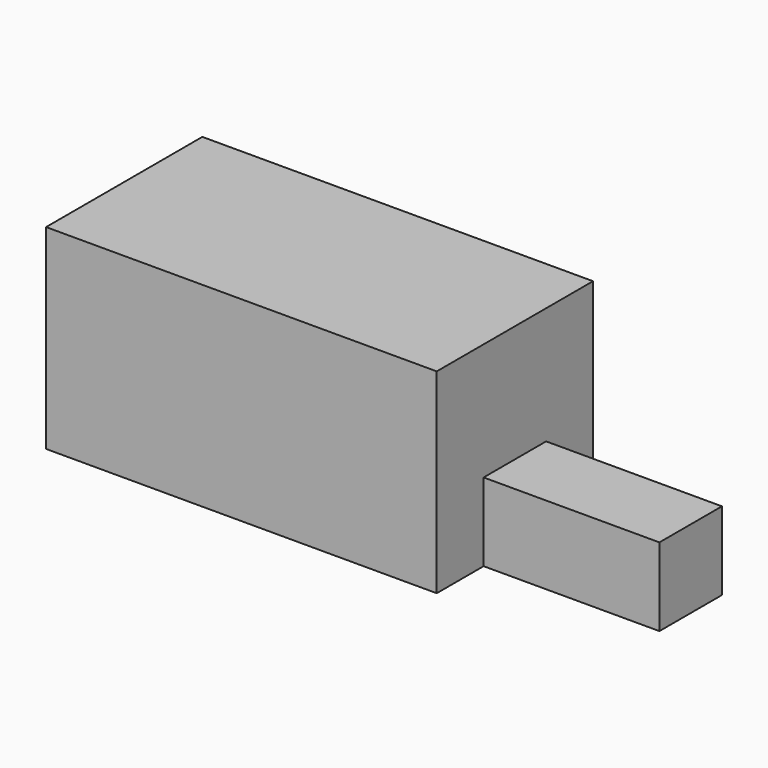
from build123d import *

# Parameters (mm, degrees)
F0_W     = 20
F0_H     = 10
F1_DEPTH = 10
F2_W     = 4
F2_H     = 4
F3_DEPTH = 9
F4_W     = 5.5
F4_H     = 5
F5_DEPTH = 10


with BuildPart() as f1:
    # F0 (on Top) → F1 (new body)
    with BuildSketch(Plane.XY):
        with Locations((10, 5)):
            Rectangle(F0_W, F0_H)
    extrude(amount=F1_DEPTH)

    # F2 (on face) → F3 (join)
    with BuildSketch(Plane.YZ.offset(20)):
        with Locations((5, 2)):
            Rectangle(F2_W, F2_H)
    extrude(amount=F3_DEPTH)

    # F4 (on face) → F5 (cut)
    with BuildSketch(Plane(origin=(0, 0, 0), x_dir=(0, -1, 0), z_dir=(-1, 0, 0))):
        with Locations((-5, 3.5)):
            Rectangle(F4_W, F4_H)
    extrude(amount=-F5_DEPTH, mode=Mode.SUBTRACT)


solid = f1.part
